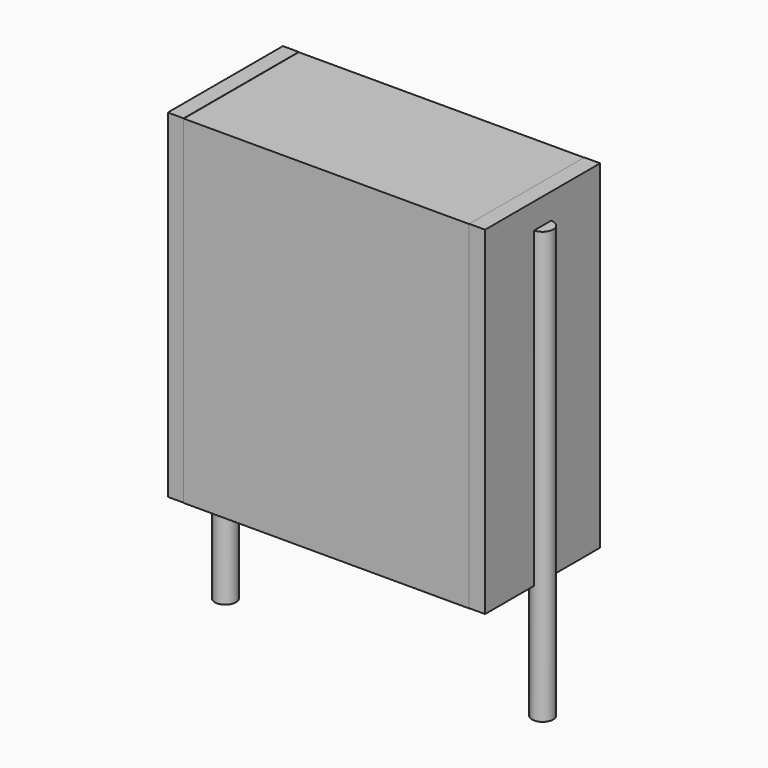
from build123d import *

# Parameters (mm, degrees)
SKETCH_W          = 6.75
SKETCH_H          = 3.4
PAD_DEPTH         = 8
SKETCH001_R       = 0.25
PAD001_DEPTH      = 7
PAD001_DEPTH_BACK = 3.2
SKETCH002_W       = 0.375
SKETCH002_H       = 3.4
PAD002_DEPTH      = 8


with BuildPart() as pad:
    # Sketch → Pad (new body)
    with BuildSketch(Plane.XY.offset(0.1)):
        with Locations((3.75, 0)):
            Rectangle(SKETCH_W, SKETCH_H)
    extrude(amount=PAD_DEPTH)


with BuildPart() as pad001:
    # Sketch001 → Pad001 (new body, two sides)
    with BuildSketch(Plane.XY.offset(0.5)) as pad001_sk:
        Circle(SKETCH001_R)
        with Locations((7.5, 0)):
            Circle(SKETCH001_R)
    extrude(amount=PAD001_DEPTH)
    extrude(pad001_sk.sketch, amount=-PAD001_DEPTH_BACK)


with BuildPart() as pad002:
    # Sketch002 → Pad002 (new body)
    with BuildSketch(Plane.XY.offset(0.105)):
        with Locations((0.1875, 0)):
            Rectangle(SKETCH002_W, SKETCH002_H)
        with Locations((7.3125, 0)):
            Rectangle(SKETCH002_W, SKETCH002_H)
    extrude(amount=PAD002_DEPTH)


solid = Compound([pad.part, pad001.part, pad002.part])
